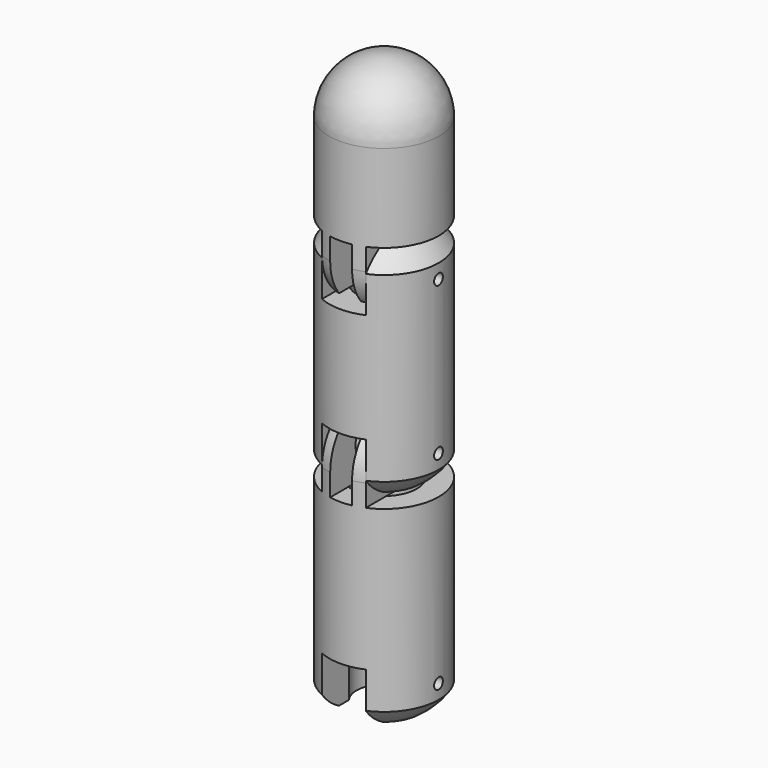
from build123d import *

# Parameters (mm, degrees)
CYLINDER043_R                = 3
CYLINDER043_DEPTH            = 10
CYLINDER042_R                = 5
CYLINDER042_DEPTH            = 4
CYLINDER041_R                = 0.5
CYLINDER041_DEPTH            = 10
CYLINDER040_R                = 2.5
CYLINDER040_DEPTH            = 10
BOX014_W                     = 4
BOX014_H                     = 10
BOX014_DEPTH                 = 5
CYLINDER039_R                = 5
CYLINDER039_DEPTH            = 10
CYLINDER046_R                = 0.5
CYLINDER046_DEPTH            = 10
CYLINDER038_R                = 2
CYLINDER038_DEPTH            = 4
CYLINDER047_R                = 3
CYLINDER047_DEPTH            = 10
BOX016_W                     = 10
BOX016_H                     = 10
BOX016_DEPTH                 = 10
BOX013_W                     = 2
BOX013_H                     = 10
BOX013_DEPTH                 = 10
BOX015_W                     = 10
BOX015_H                     = 10
BOX015_DEPTH                 = 10
CYLINDER045_R                = 5
CYLINDER045_DEPTH            = 10
CYLINDER044_R                = 5
CYLINDER044_DEPTH            = 10
CYLINDER054_R                = 0.5
CYLINDER054_DEPTH            = 10
CYLINDER052_R                = 2
CYLINDER052_DEPTH            = 4
CYLINDER055_R                = 3
CYLINDER055_DEPTH            = 10
BOX018_W                     = 10
BOX018_H                     = 10
BOX018_DEPTH                 = 10
BOX019_W                     = 2
BOX019_H                     = 10
BOX019_DEPTH                 = 10
BOX017_W                     = 10
BOX017_H                     = 10
BOX017_DEPTH                 = 10
CYLINDER053_R                = 5
CYLINDER053_DEPTH            = 10
CYLINDER051_R                = 5
CYLINDER051_DEPTH            = 10
CUT045_PLACEMENT_ANGLE       = 180
CYLINDER059_R                = 3
CYLINDER059_DEPTH            = 10
CYLINDER050_R                = 5
CYLINDER050_DEPTH            = 4
CYLINDER057_R                = 0.5
CYLINDER057_DEPTH            = 10
CYLINDER048_R                = 2.5
CYLINDER048_DEPTH            = 10
BOX020_W                     = 4
BOX020_H                     = 10
BOX020_DEPTH                 = 5
CYLINDER058_R                = 5
CYLINDER058_DEPTH            = 10
FUSION005021_PLACEMENT_ANGLE = 180
CYLINDER061_R                = 3
CYLINDER061_DEPTH            = 10
CYLINDER060_R                = 5
CYLINDER060_DEPTH            = 4
CYLINDER056_R                = 0.5
CYLINDER056_DEPTH            = 10
CYLINDER062_R                = 2.5
CYLINDER062_DEPTH            = 10
BOX021_W                     = 4
BOX021_H                     = 10
BOX021_DEPTH                 = 5
CYLINDER049_R                = 5
CYLINDER049_DEPTH            = 10


with BuildPart() as cylinder043:
    # Cylinder043 → Cylinder043 (new body)
    with BuildSketch(Plane(origin=(18, 0, -6), x_dir=(1, 0, 0), z_dir=(0, 0, 1))):
        Circle(CYLINDER043_R)
    extrude(amount=CYLINDER043_DEPTH)


with BuildPart() as cut035:
    # Cylinder042 → Cylinder042 (new body)
    with BuildSketch(Plane(origin=(18, 0, -4), x_dir=(1, 0, 0), z_dir=(0, 0, 1))):
        Circle(CYLINDER042_R)
    extrude(amount=CYLINDER042_DEPTH)

    # Cut035: cut Cylinder043
    add(cylinder043.part, mode=Mode.SUBTRACT)


with BuildPart() as cut035_1:
    # Cut035 placement: moved
    add(cut035.part.moved(Location((-18, 0, 0))))


with BuildPart() as sphere010:
    # Sphere010 → Sphere010 (revolve)
    with BuildSketch(Plane(origin=(0, 0, -5), x_dir=(1, 0, 0), z_dir=(0, -1, 0))):
        with BuildLine():
            ThreePointArc((0, -6), (6, 0), (0, 6))
            Line((0, 6), (0, -6))
        make_face()
    revolve(axis=Axis((0, 0, -5), (0, 0, 1)))


with BuildPart() as cylinder041:
    # Cylinder041 → Cylinder041 (new body)
    with BuildSketch(Plane(origin=(5, 0, -7), x_dir=(0, 0, 1), z_dir=(-1, 0, 0))):
        Circle(CYLINDER041_R)
    extrude(amount=CYLINDER041_DEPTH)


with BuildPart() as cylinder040:
    # Cylinder040 → Cylinder040 (new body)
    with BuildSketch(Plane.XY.offset(-10)):
        Circle(CYLINDER040_R)
    extrude(amount=CYLINDER040_DEPTH)


with BuildPart() as cube014:
    # Box014 → Box014 (new body)
    with BuildSketch(Plane(origin=(-2, -5, -10), x_dir=(1, 0, 0), z_dir=(0, 0, 1))):
        with Locations((2, 5)):
            Rectangle(BOX014_W, BOX014_H)
    extrude(amount=BOX014_DEPTH)


with BuildPart() as fusion005014:
    # Cylinder039 → Cylinder039 (new body)
    with BuildSketch(Plane.XY.offset(-10)):
        Circle(CYLINDER039_R)
    extrude(amount=CYLINDER039_DEPTH)

    # Cut032: cut Cube014
    add(cube014.part, mode=Mode.SUBTRACT)

    # Cut033: cut Cylinder040
    add(cylinder040.part, mode=Mode.SUBTRACT)

    # Cut034: cut Cylinder041
    add(cylinder041.part, mode=Mode.SUBTRACT)

    # Common007: intersect Sphere010
    add(sphere010.part, mode=Mode.INTERSECT)

    # Fusion005013: union Cut035
    add(cut035_1.part)


with BuildPart() as fusion005014_1:
    # Fusion005014 placement: moved
    add(fusion005014.part.moved(Location((0, 0, -18.5))))


with BuildPart() as cylinder046:
    # Cylinder046 → Cylinder046 (new body)
    with BuildSketch(Plane(origin=(-5, 0, -7), x_dir=(0, 0, -1), z_dir=(1, 0, 0))):
        Circle(CYLINDER046_R)
    extrude(amount=CYLINDER046_DEPTH)


with BuildPart() as cylinder038:
    # Cylinder038 → Cylinder038 (new body)
    with BuildSketch(Plane(origin=(-2, -50, 1), x_dir=(0, 0, -1), z_dir=(1, 0, 0))):
        Circle(CYLINDER038_R)
    extrude(amount=CYLINDER038_DEPTH)


with BuildPart() as cylinder047:
    # Cylinder047 → Cylinder047 (new body)
    with BuildSketch(Plane(origin=(0, -50, -12), x_dir=(1, 0, 0), z_dir=(0, 0, 1))):
        Circle(CYLINDER047_R)
    extrude(amount=CYLINDER047_DEPTH)


with BuildPart() as cube016:
    # Box016 → Box016 (new body)
    with BuildSketch(Plane(origin=(-12, -55, -2), x_dir=(1, 0, 0), z_dir=(0, 0, 1))):
        with Locations((5, 5)):
            Rectangle(BOX016_W, BOX016_H)
    extrude(amount=BOX016_DEPTH)


with BuildPart() as cube013:
    # Box013 → Box013 (new body)
    with BuildSketch(Plane(origin=(-1, -55, -2), x_dir=(1, 0, 0), z_dir=(0, 0, 1))):
        with Locations((1, 5)):
            Rectangle(BOX013_W, BOX013_H)
    extrude(amount=BOX013_DEPTH)


with BuildPart() as cube015:
    # Box015 → Box015 (new body)
    with BuildSketch(Plane(origin=(2, -55, -2), x_dir=(1, 0, 0), z_dir=(0, 0, 1))):
        with Locations((5, 5)):
            Rectangle(BOX015_W, BOX015_H)
    extrude(amount=BOX015_DEPTH)


with BuildPart() as cylinder045:
    # Cylinder045 → Cylinder045 (new body)
    with BuildSketch(Plane(origin=(0, -50, -10), x_dir=(1, 0, 0), z_dir=(0, 0, 1))):
        Circle(CYLINDER045_R)
    extrude(amount=CYLINDER045_DEPTH)


with BuildPart() as sphere011:
    # Sphere011 → Sphere011 (revolve)
    with BuildSketch(Plane.XZ.offset(50)):
        with BuildLine():
            ThreePointArc((5, 0), (3.535534, 3.535534), (0, 5))
            Line((0, 5), (0, 0))
            Line((0, 0), (5, 0))
        make_face()
    revolve(axis=Axis((0, -50, 0), (0, 0, 1)))


with BuildPart() as cut038:
    # Cylinder044 → Cylinder044 (new body)
    with BuildSketch(Plane(origin=(0, -50, -7), x_dir=(1, 0, 0), z_dir=(0, 0, 1))):
        Circle(CYLINDER044_R)
    extrude(amount=CYLINDER044_DEPTH)

    # Common008: intersect Sphere011
    add(sphere011.part, mode=Mode.INTERSECT)

    # Fusion005015: union Cylinder045
    add(cylinder045.part)

    # Cut037: cut Cube015
    add(cube015.part, mode=Mode.SUBTRACT)

    # Cut039: cut Cube013
    add(cube013.part, mode=Mode.SUBTRACT)

    # Cut040: cut Cube016
    add(cube016.part, mode=Mode.SUBTRACT)

    # Cut036: cut Cylinder047
    add(cylinder047.part, mode=Mode.SUBTRACT)

    # Fusion005012: union Cylinder038
    add(cylinder038.part)


with BuildPart() as cut038_1:
    # Fusion005016 placement: moved
    add(cut038.part.moved(Location((0, 50, -8.5))))

    # Cut038: cut Cylinder046
    add(cylinder046.part, mode=Mode.SUBTRACT)


with BuildPart() as cut038_2:
    # Cut038 placement: moved
    add(cut038_1.part.moved(Location((0, 0, -18.5))))


with BuildPart() as cylinder054:
    # Cylinder054 → Cylinder054 (new body)
    with BuildSketch(Plane(origin=(-5, 0, -7), x_dir=(0, 0, -1), z_dir=(1, 0, 0))):
        Circle(CYLINDER054_R)
    extrude(amount=CYLINDER054_DEPTH)


with BuildPart() as cylinder052:
    # Cylinder052 → Cylinder052 (new body)
    with BuildSketch(Plane(origin=(-2, -50, 1), x_dir=(0, 0, -1), z_dir=(1, 0, 0))):
        Circle(CYLINDER052_R)
    extrude(amount=CYLINDER052_DEPTH)


with BuildPart() as cylinder055:
    # Cylinder055 → Cylinder055 (new body)
    with BuildSketch(Plane(origin=(0, -50, -12), x_dir=(1, 0, 0), z_dir=(0, 0, 1))):
        Circle(CYLINDER055_R)
    extrude(amount=CYLINDER055_DEPTH)


with BuildPart() as cube018:
    # Box018 → Box018 (new body)
    with BuildSketch(Plane(origin=(-12, -55, -2), x_dir=(1, 0, 0), z_dir=(0, 0, 1))):
        with Locations((5, 5)):
            Rectangle(BOX018_W, BOX018_H)
    extrude(amount=BOX018_DEPTH)


with BuildPart() as cube019:
    # Box019 → Box019 (new body)
    with BuildSketch(Plane(origin=(-1, -55, -2), x_dir=(1, 0, 0), z_dir=(0, 0, 1))):
        with Locations((1, 5)):
            Rectangle(BOX019_W, BOX019_H)
    extrude(amount=BOX019_DEPTH)


with BuildPart() as cube017:
    # Box017 → Box017 (new body)
    with BuildSketch(Plane(origin=(2, -55, -2), x_dir=(1, 0, 0), z_dir=(0, 0, 1))):
        with Locations((5, 5)):
            Rectangle(BOX017_W, BOX017_H)
    extrude(amount=BOX017_DEPTH)


with BuildPart() as cylinder053:
    # Cylinder053 → Cylinder053 (new body)
    with BuildSketch(Plane(origin=(0, -50, -10), x_dir=(1, 0, 0), z_dir=(0, 0, 1))):
        Circle(CYLINDER053_R)
    extrude(amount=CYLINDER053_DEPTH)


with BuildPart() as sphere012:
    # Sphere012 → Sphere012 (revolve)
    with BuildSketch(Plane.XZ.offset(50)):
        with BuildLine():
            ThreePointArc((5, 0), (3.535534, 3.535534), (0, 5))
            Line((0, 5), (0, 0))
            Line((0, 0), (5, 0))
        make_face()
    revolve(axis=Axis((0, -50, 0), (0, 0, 1)))


with BuildPart() as cut045:
    # Cylinder051 → Cylinder051 (new body)
    with BuildSketch(Plane(origin=(0, -50, -7), x_dir=(1, 0, 0), z_dir=(0, 0, 1))):
        Circle(CYLINDER051_R)
    extrude(amount=CYLINDER051_DEPTH)

    # Common010: intersect Sphere012
    add(sphere012.part, mode=Mode.INTERSECT)

    # Fusion005018: union Cylinder053
    add(cylinder053.part)

    # Cut044: cut Cube017
    add(cube017.part, mode=Mode.SUBTRACT)

    # Cut046: cut Cube019
    add(cube019.part, mode=Mode.SUBTRACT)

    # Cut047: cut Cube018
    add(cube018.part, mode=Mode.SUBTRACT)

    # Cut043: cut Cylinder055
    add(cylinder055.part, mode=Mode.SUBTRACT)

    # Fusion005017: union Cylinder052
    add(cylinder052.part)


with BuildPart() as cut045_1:
    # Fusion005019 placement: moved
    add(cut045.part.moved(Location((0, 50, -8.5))))

    # Cut045: cut Cylinder054
    add(cylinder054.part, mode=Mode.SUBTRACT)


with BuildPart() as cut045_2:
    # Cut045 placement: moved
    add(cut045_1.part.moved(Location((0, 0, -18.5))).rotate(Axis((0, 0, -18.5), (1, 0, 0)), CUT045_PLACEMENT_ANGLE))


with BuildPart() as cylinder059:
    # Cylinder059 → Cylinder059 (new body)
    with BuildSketch(Plane(origin=(18, 0, -6), x_dir=(1, 0, 0), z_dir=(0, 0, 1))):
        Circle(CYLINDER059_R)
    extrude(amount=CYLINDER059_DEPTH)


with BuildPart() as cut052:
    # Cylinder050 → Cylinder050 (new body)
    with BuildSketch(Plane(origin=(18, 0, -4), x_dir=(1, 0, 0), z_dir=(0, 0, 1))):
        Circle(CYLINDER050_R)
    extrude(amount=CYLINDER050_DEPTH)

    # Cut052: cut Cylinder059
    add(cylinder059.part, mode=Mode.SUBTRACT)


with BuildPart() as cut052_1:
    # Cut052 placement: moved
    add(cut052.part.moved(Location((-18, 0, 0))))


with BuildPart() as sphere013:
    # Sphere013 → Sphere013 (revolve)
    with BuildSketch(Plane(origin=(0, 0, -5), x_dir=(1, 0, 0), z_dir=(0, -1, 0))):
        with BuildLine():
            ThreePointArc((0, -6), (6, 0), (0, 6))
            Line((0, 6), (0, -6))
        make_face()
    revolve(axis=Axis((0, 0, -5), (0, 0, 1)))


with BuildPart() as cylinder057:
    # Cylinder057 → Cylinder057 (new body)
    with BuildSketch(Plane(origin=(5, 0, -7), x_dir=(0, 0, 1), z_dir=(-1, 0, 0))):
        Circle(CYLINDER057_R)
    extrude(amount=CYLINDER057_DEPTH)


with BuildPart() as cylinder048:
    # Cylinder048 → Cylinder048 (new body)
    with BuildSketch(Plane.XY.offset(-10)):
        Circle(CYLINDER048_R)
    extrude(amount=CYLINDER048_DEPTH)


with BuildPart() as cube020:
    # Box020 → Box020 (new body)
    with BuildSketch(Plane(origin=(-2, -5, -10), x_dir=(1, 0, 0), z_dir=(0, 0, 1))):
        with Locations((2, 5)):
            Rectangle(BOX020_W, BOX020_H)
    extrude(amount=BOX020_DEPTH)


with BuildPart() as fusion005021:
    # Cylinder058 → Cylinder058 (new body)
    with BuildSketch(Plane.XY.offset(-10)):
        Circle(CYLINDER058_R)
    extrude(amount=CYLINDER058_DEPTH)

    # Cut048: cut Cube020
    add(cube020.part, mode=Mode.SUBTRACT)

    # Cut051: cut Cylinder048
    add(cylinder048.part, mode=Mode.SUBTRACT)

    # Cut042: cut Cylinder057
    add(cylinder057.part, mode=Mode.SUBTRACT)

    # Common009: intersect Sphere013
    add(sphere013.part, mode=Mode.INTERSECT)

    # Fusion005020: union Cut052
    add(cut052_1.part)


with BuildPart() as fusion005021_1:
    # Fusion005021 placement: moved
    add(fusion005021.part.moved(Location((0, 0, -18.5))).rotate(Axis((0, 0, -18.5), (1, 0, 0)), FUSION005021_PLACEMENT_ANGLE))


with BuildPart() as cylinder061:
    # Cylinder061 → Cylinder061 (new body)
    with BuildSketch(Plane(origin=(18, 0, -6), x_dir=(1, 0, 0), z_dir=(0, 0, 1))):
        Circle(CYLINDER061_R)
    extrude(amount=CYLINDER061_DEPTH)


with BuildPart() as cut053:
    # Cylinder060 → Cylinder060 (new body)
    with BuildSketch(Plane(origin=(18, 0, -4), x_dir=(1, 0, 0), z_dir=(0, 0, 1))):
        Circle(CYLINDER060_R)
    extrude(amount=CYLINDER060_DEPTH)

    # Cut053: cut Cylinder061
    add(cylinder061.part, mode=Mode.SUBTRACT)


with BuildPart() as cut053_1:
    # Cut053 placement: moved
    add(cut053.part.moved(Location((-18, 0, 0))))


with BuildPart() as sphere014:
    # Sphere014 → Sphere014 (revolve)
    with BuildSketch(Plane(origin=(0, 0, -5), x_dir=(1, 0, 0), z_dir=(0, -1, 0))):
        with BuildLine():
            ThreePointArc((0, -6), (6, 0), (0, 6))
            Line((0, 6), (0, -6))
        make_face()
    revolve(axis=Axis((0, 0, -5), (0, 0, 1)))


with BuildPart() as cylinder056:
    # Cylinder056 → Cylinder056 (new body)
    with BuildSketch(Plane(origin=(5, 0, -7), x_dir=(0, 0, 1), z_dir=(-1, 0, 0))):
        Circle(CYLINDER056_R)
    extrude(amount=CYLINDER056_DEPTH)


with BuildPart() as cylinder062:
    # Cylinder062 → Cylinder062 (new body)
    with BuildSketch(Plane.XY.offset(-10)):
        Circle(CYLINDER062_R)
    extrude(amount=CYLINDER062_DEPTH)


with BuildPart() as cube021:
    # Box021 → Box021 (new body)
    with BuildSketch(Plane(origin=(-2, -5, -10), x_dir=(1, 0, 0), z_dir=(0, 0, 1))):
        with Locations((2, 5)):
            Rectangle(BOX021_W, BOX021_H)
    extrude(amount=BOX021_DEPTH)


with BuildPart() as fusion005023:
    # Cylinder049 → Cylinder049 (new body)
    with BuildSketch(Plane.XY.offset(-10)):
        Circle(CYLINDER049_R)
    extrude(amount=CYLINDER049_DEPTH)

    # Cut041: cut Cube021
    add(cube021.part, mode=Mode.SUBTRACT)

    # Cut049: cut Cylinder062
    add(cylinder062.part, mode=Mode.SUBTRACT)

    # Cut050: cut Cylinder056
    add(cylinder056.part, mode=Mode.SUBTRACT)

    # Common011: intersect Sphere014
    add(sphere014.part, mode=Mode.INTERSECT)

    # Fusion005022: union Cut053
    add(cut053_1.part)


with BuildPart() as fusion005023_1:
    # Fusion005023 placement: moved
    add(fusion005023.part.moved(Location((0, 0, -37))))


with BuildPart() as connect005:
    # Sphere009 → Sphere009 (revolve)
    with BuildSketch(Plane.XZ):
        with BuildLine():
            ThreePointArc((5, 0), (3.535534, 3.535534), (0, 5))
            Line((0, 5), (0, 0))
            Line((0, 0), (5, 0))
        make_face()
    revolve(axis=Axis((0, 0, 0), (0, 0, 1)))

    # Connect: union Fusion005014, Cut038, Cut045, Fusion005021, Fusion005023
    add(fusion005014_1.part)
    add(cut038_2.part)
    add(cut045_2.part)
    add(fusion005021_1.part)
    add(fusion005023_1.part)


with BuildPart() as connect005_1:
    # Connect placement: moved
    add(connect005.part.moved(Location((-77, 0, 0))))


solid = connect005_1.part
